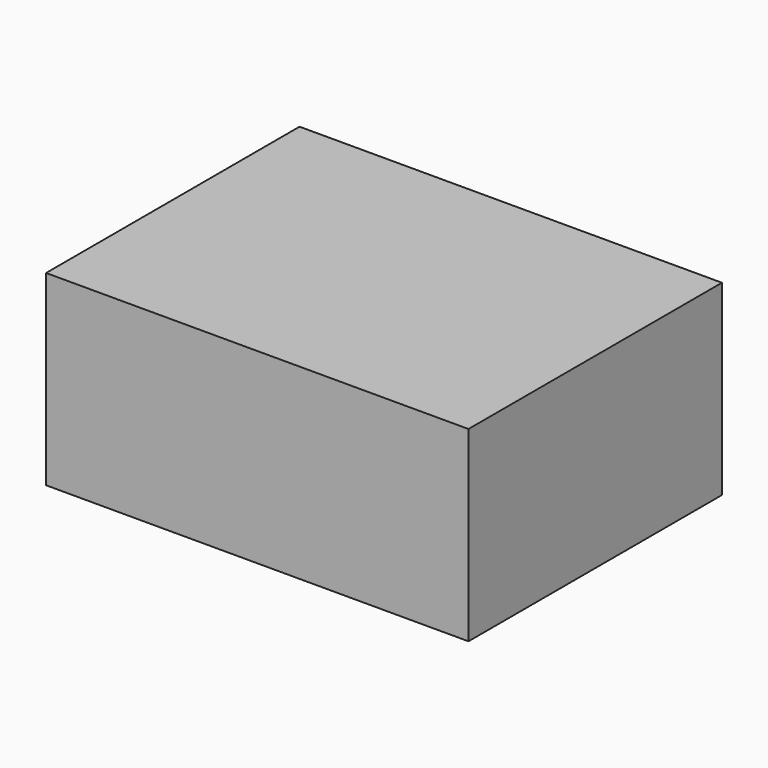
from build123d import *

# Parameters (mm, degrees)
F0_W     = 203.2
F0_H     = 152.4
F1_DEPTH = 88.9
F2_T     = -1.016
F3_W     = 203.2
F3_H     = 152.4
F4_DEPTH = 1.016
F6_W     = 12.7
F6_H     = 12.7
F7_DEPTH = 12.7


with BuildPart() as f1:
    # F0 (on Top) → F1 (new body)
    with BuildSketch(Plane.XY):
        Rectangle(F0_W, F0_H)
    extrude(amount=F1_DEPTH)

    # F2
    f2_openings = [f1.faces().sort_by_distance(p)[0] for p in [
        (0, 0, 88.9),
    ]]
    offset(amount=F2_T, openings=f2_openings)

    # F3 (on face) → F4 (join)
    with BuildSketch(Plane.XY.offset(88.9)):
        Rectangle(F3_W, F3_H)
    extrude(amount=F4_DEPTH)


with BuildPart() as f7:
    # F6 (on offset) → F7 (new body)
    with BuildSketch(Plane.YZ.offset(6.35)):
        with Locations((0, 38.1)):
            Rectangle(F6_W, F6_H)
    extrude(amount=-F7_DEPTH)


solid = Compound([f1.part, f7.part])
